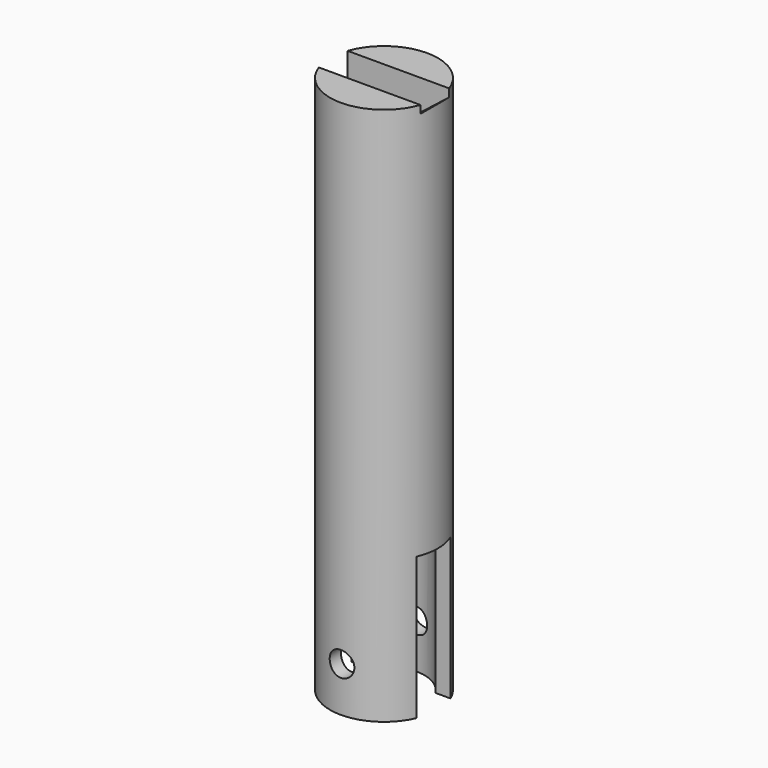
from build123d import *

# Parameters (mm, degrees)
F0_R          = 2.4
F1_DEPTH      = 24
F2_R          = 1.8
F3_DEPTH      = 10
F5_DEPTH      = 25
F5_DEPTH_BACK = 25
F7_DEPTH      = 0.8
F7_DEPTH_BACK = 0.8
F8_R          = 0.55
F9_DEPTH      = 2.401
F9_DEPTH_BACK = 2.401


with BuildPart() as f1:
    # F0 (on Top) → F1 (new body)
    with BuildSketch(Plane.XY):
        Circle(F0_R)
    extrude(amount=F1_DEPTH)

    # F2 (on face) → F3 (cut)
    with BuildSketch(Plane(origin=(0, 0, 0), x_dir=(1, 0, 0), z_dir=(0, 0, -1))):
        Circle(F2_R)
    extrude(amount=-F3_DEPTH, mode=Mode.SUBTRACT)

    # F4 (on Right) → F5 (cut, two sides)
    with BuildSketch(Plane.YZ) as f5_sk:
        Polygon((-0.95, 0), (0.95, 0), (0.95, 6.3333333333), (0, 6.3333333333), (-0.95, 6.3333333333), align=None)
    extrude(amount=-F5_DEPTH, mode=Mode.SUBTRACT)
    extrude(f5_sk.sketch, amount=F5_DEPTH_BACK, mode=Mode.SUBTRACT)

    # F6 (on Front) → F7 (cut, two sides)
    with BuildSketch(Plane.XZ) as f7_sk:
        Polygon((-2.4, 24), (-2.4946786115, 24), (-2.4946786115, 19.9), (2.7053213885, 24), (2.4, 24), align=None)
    extrude(amount=F7_DEPTH, mode=Mode.SUBTRACT)
    extrude(f7_sk.sketch, amount=-F7_DEPTH_BACK, mode=Mode.SUBTRACT)

    # F8 (on Front) → F9 (cut, two sides)
    with BuildSketch(Plane.XZ) as f9_sk:
        with Locations((0, 2)):
            Circle(F8_R)
    extrude(amount=-F9_DEPTH, mode=Mode.SUBTRACT)
    extrude(f9_sk.sketch, amount=F9_DEPTH_BACK, mode=Mode.SUBTRACT)


solid = f1.part
